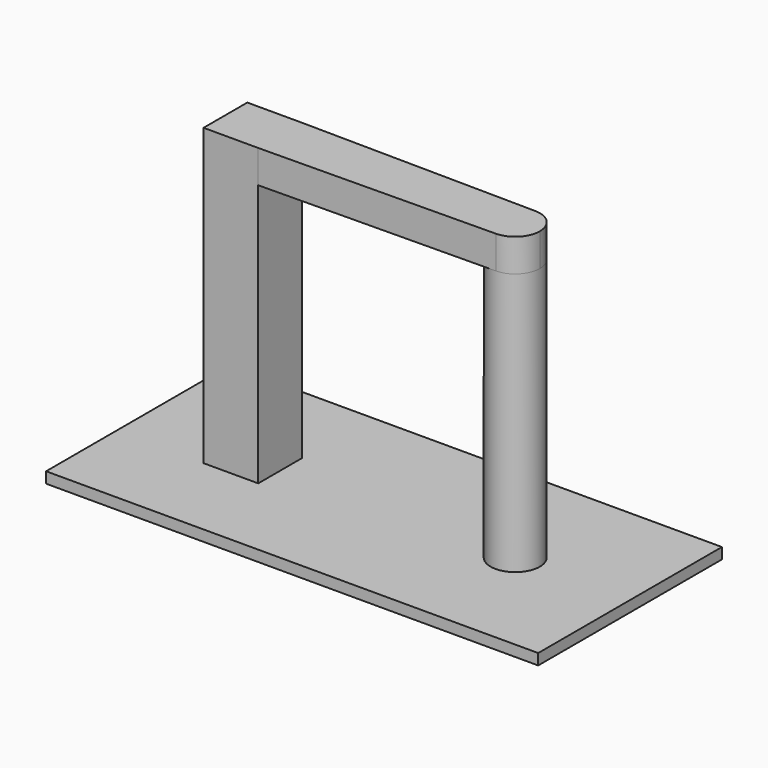
from build123d import *

# Parameters (mm, degrees)
F0_W     = 45
F0_H     = 21
F0_W_2   = 5
F0_H_2   = 5
F0_R     = 2.25
F1_DEPTH = 1
F2_DEPTH = 25
F3_W     = 5
F3_H     = 5
F4_DEPTH = 3


with BuildPart() as f1:
    # F0 (on Top) → F1 (new body)
    with BuildSketch(Plane.XY):
        Rectangle(F0_W, F0_H)
        with Locations((-12, 0)):
            Rectangle(F0_W_2, F0_H_2, mode=Mode.SUBTRACT)
        with Locations((12, 0)):
            Circle(F0_R, mode=Mode.SUBTRACT)
    extrude(amount=F1_DEPTH)

    # F0 (on Top) → F2 (join)
    with BuildSketch(Plane.XY):
        with Locations((-12, 0)):
            Rectangle(F0_W_2, F0_H_2)
        with Locations((12, 0)):
            Circle(F0_R)
    extrude(amount=F2_DEPTH)

    # F3 (on face) → F4 (join)
    with BuildSketch(Plane.XY.offset(25)):
        with BuildLine():
            Line((12.026145, 2.249848), (-9.5, 2.5))
            Line((-9.5, 2.5), (-9.5, -2.5))
            Line((-9.5, -2.5), (12.026145, -2.249848))
            ThreePointArc((12.026145, -2.249848), (9.75, 0), (12.026145, 2.249848))
        make_face()
        with Locations((-12, 0)):
            Rectangle(F3_W, F3_H)
        with BuildLine():
            ThreePointArc((14.25, 0), (13.600207, 1.58172), (12.026145, 2.249848))
            ThreePointArc((12.026145, 2.249848), (9.75, 0), (12.026145, -2.249848))
            ThreePointArc((12.026145, -2.249848), (13.600207, -1.58172), (14.25, 0))
        make_face()
    extrude(amount=F4_DEPTH)


solid = f1.part
